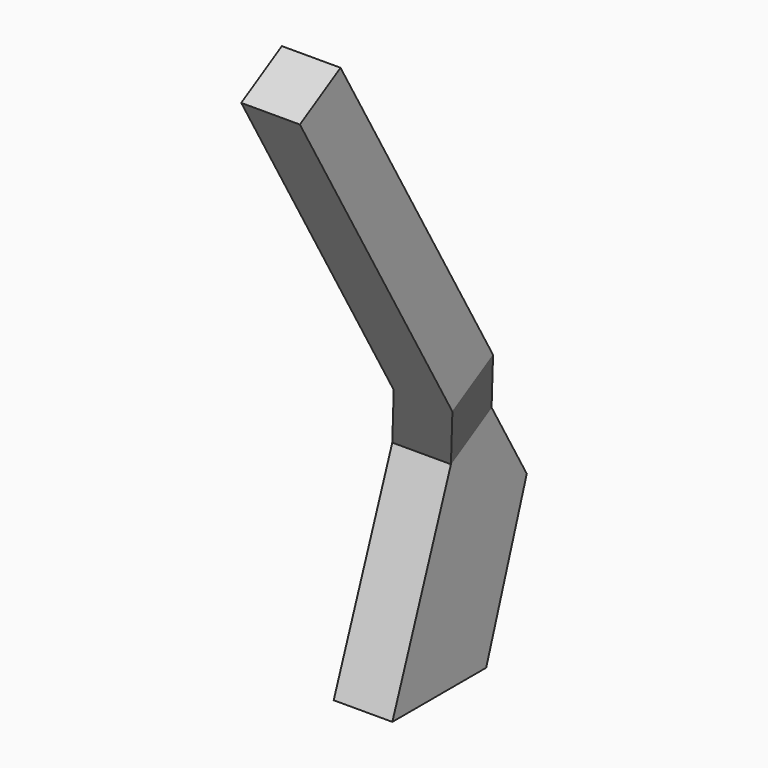
from build123d import *

# Parameters (mm, degrees)
EXTRUDE023_DEPTH                          = 4
EXTRUDE022_DEPTH                          = 4
EXTRUDE022_ONTO_SKETCH021_PLACEMENT_ANGLE = 120


with BuildPart() as extrude023:
    # Sketch022 (on Face6 of Extrude022) → Extrude023 (new body)
    with BuildSketch(Plane(origin=(26.5, 0, 0), x_dir=(0, -1, 0), z_dir=(-1, 0, 0))):
        Polygon((-15.99404, 23.43698), (-11, 10), (-19, 10), (-22.458142, 20.240827), align=None)
    extrude(amount=-EXTRUDE023_DEPTH)


with BuildPart() as pin_boot:
    # Sketch021 as drawn → Extrude022 (new)
    with BuildSketch(Plane.XY):
        Polygon((29, 44.3), (33, 44.3), (33, 18.3), (30.5, 12.3), (30.5, 6.3), (26.5, 6.3), (26.5, 12.3), (29, 18.3), align=None)
    extrude(amount=EXTRUDE022_DEPTH)


with BuildPart() as pin_boot_1:
    # Extrude022 onto Sketch021 placement: moved
    add(pin_boot.part.moved(Location((0, 25.608142, 14.784867))).rotate(Axis((0, 25.608142, 14.784867), (1, 0, 0)), EXTRUDE022_ONTO_SKETCH021_PLACEMENT_ANGLE))

    # Connect005: union Extrude023
    add(extrude023.part)


solid = pin_boot_1.part
